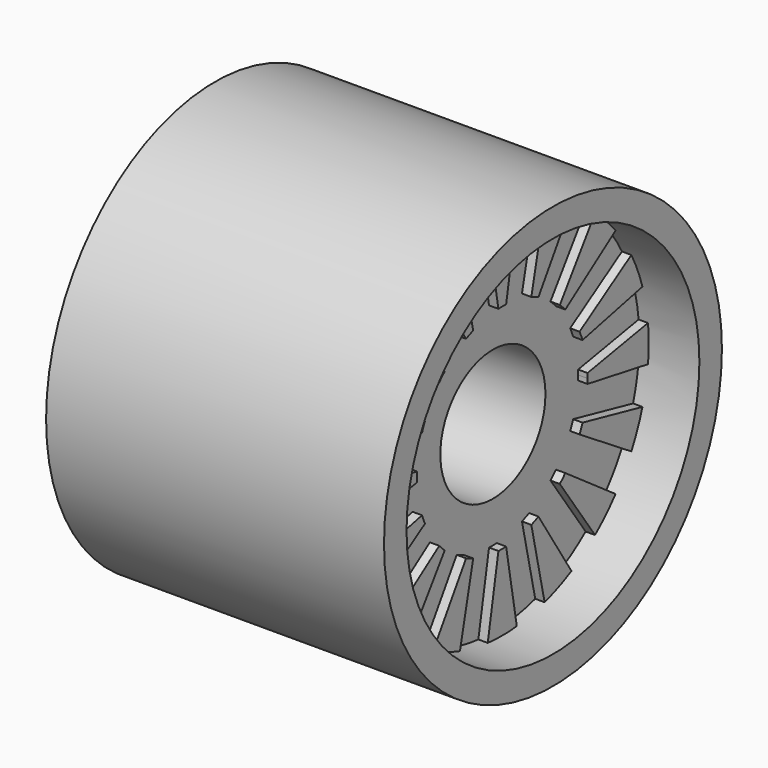
from build123d import *

# Parameters (mm, degrees)
F0_R     = 9.75
F2_DEPTH = 18
F1_R     = 11.25
F1_R_2   = 9.75
F3_DEPTH = 18
F4_DEPTH = 10
F5_DEPTH = 3.2
F6_R     = 3.5
F7_DEPTH = 14.801
F9_DEPTH = 0.5


with BuildPart() as f2:
    # F0 (on Right) → F2 (new body)
    with BuildSketch(Plane.YZ):
        Circle(F0_R)
    extrude(amount=F2_DEPTH)

    # F4 (cut): a face of the model
    f4_faces = [f2.faces().sort_by_distance(p)[0] for p in [
        (0, 0, 0),
    ]]
    extrude(f4_faces, amount=-F4_DEPTH, mode=Mode.SUBTRACT)

    # F5 (cut): a face of the model
    f5_faces = [f2.faces().sort_by_distance(p)[0] for p in [
        (18, 0, 0),
    ]]
    extrude(f5_faces, amount=-F5_DEPTH, mode=Mode.SUBTRACT)

    # F6 (on face) → F7 (cut, through all)
    with BuildSketch(Plane.YZ.offset(14.8)):
        Circle(F6_R)
    extrude(amount=-F7_DEPTH, mode=Mode.SUBTRACT)



with BuildPart() as f3:
    # F1 (on face) → F3 (new body)
    with BuildSketch(Plane.YZ):
        Circle(F1_R)
        Circle(F1_R_2, mode=Mode.SUBTRACT)
    extrude(amount=F3_DEPTH)


with BuildPart() as f2_1:
    add(f2.part)

    add(f3.part)  # F9 merges F3
    # F8 (on face) → F9 (join)
    with BuildSketch(Plane.YZ.offset(14.8)):
        with BuildLine():
            ThreePointArc((-4.19606186, 3.8323562574), (-4.0183261202, 4.0183261202), (-3.8323562574, 4.19606186))
            Line((-3.8323562574, 4.19606186), (-6.1766101499, 7.5440033839))
            ThreePointArc((-6.1766101499, 7.5440033839), (-6.8942911166, 6.8942911166), (-7.5440033839, 6.1766101499))
            Line((-7.5440033839, 6.1766101499), (-4.19606186, 3.8323562574))
        make_face()
        with BuildLine():
            ThreePointArc((-2.410076423, 5.1463988625), (-2.1747024254, 5.2501960894), (-1.9348721525, 5.3432349162))
            Line((-1.9348721525, 5.3432349162), (-2.8194785891, 9.3334366921))
            ThreePointArc((-2.8194785891, 9.3334366921), (-3.7311634656, 9.007825442), (-4.606063947, 8.5934088065))
            Line((-4.606063947, 8.5934088065), (-2.410076423, 5.1463988625))
        make_face()
        with BuildLine():
            ThreePointArc((-0.2571786979, 5.676948893), (0, 5.6827712972), (0.2571786979, 5.676948893))
            Line((0.2571786979, 5.676948893), (0.9668930283, 9.7019388718))
            ThreePointArc((0.9668930283, 9.7019388718), (0, 9.75), (-0.9668930283, 9.7019388718))
            Line((-0.9668930283, 9.7019388718), (-0.2571786979, 5.676948893))
        make_face()
        with BuildLine():
            Line((2.8194785891, 9.3334366921), (1.9348721525, 5.3432349162))
            ThreePointArc((1.9348721525, 5.3432349162), (2.1747024254, 5.2501960894), (2.410076423, 5.1463988625))
            Line((2.410076423, 5.1463988625), (4.606063947, 8.5934088065))
            ThreePointArc((4.606063947, 8.5934088065), (3.7311634656, 9.007825442), (2.8194785891, 9.3334366921))
        make_face()
        with BuildLine():
            Line((6.1766101499, 7.5440033839), (3.8323562574, 4.19606186))
            ThreePointArc((3.8323562574, 4.19606186), (4.0183261202, 4.0183261202), (4.19606186, 3.8323562574))
            Line((4.19606186, 3.8323562574), (7.5440033839, 6.1766101499))
            ThreePointArc((7.5440033839, 6.1766101499), (6.8942911166, 6.8942911166), (6.1766101499, 7.5440033839))
        make_face()
        with BuildLine():
            Line((8.5934088065, 4.606063947), (5.1463988625, 2.410076423))
            ThreePointArc((5.1463988625, 2.410076423), (5.2501960894, 2.1747024254), (5.3432349162, 1.9348721525))
            Line((5.3432349162, 1.9348721525), (9.3334366921, 2.8194785891))
            ThreePointArc((9.3334366921, 2.8194785891), (9.007825442, 3.7311634656), (8.5934088065, 4.606063947))
        make_face()
        with BuildLine():
            Line((9.7019388718, 0.9668930283), (5.676948893, 0.2571786979))
            ThreePointArc((5.676948893, 0.2571786979), (5.6813155097, 0.1286222989), (5.6827712972, 0))
            ThreePointArc((5.6827712972, 0), (5.6813155097, -0.1286222989), (5.676948893, -0.2571786979))
            Line((5.676948893, -0.2571786979), (9.7019388718, -0.9668930283))
            ThreePointArc((9.7019388718, -0.9668930283), (9.7379773054, -0.4840433865), (9.75, 0))
            ThreePointArc((9.75, 0), (9.7379773054, 0.4840433865), (9.7019388718, 0.9668930283))
        make_face()
        with BuildLine():
            Line((9.3334366921, -2.8194785891), (5.3432349162, -1.9348721525))
            ThreePointArc((5.3432349162, -1.9348721525), (5.2501960894, -2.1747024254), (5.1463988625, -2.410076423))
            Line((5.1463988625, -2.410076423), (8.5934088065, -4.606063947))
            ThreePointArc((8.5934088065, -4.606063947), (9.007825442, -3.7311634656), (9.3334366921, -2.8194785891))
        make_face()
        with BuildLine():
            Line((7.5440033839, -6.1766101499), (4.19606186, -3.8323562574))
            ThreePointArc((4.19606186, -3.8323562574), (4.0183261202, -4.0183261202), (3.8323562574, -4.19606186))
            Line((3.8323562574, -4.19606186), (6.1766101499, -7.5440033839))
            ThreePointArc((6.1766101499, -7.5440033839), (6.8942911166, -6.8942911166), (7.5440033839, -6.1766101499))
        make_face()
        with BuildLine():
            Line((4.606063947, -8.5934088065), (2.410076423, -5.1463988625))
            ThreePointArc((2.410076423, -5.1463988625), (2.1747024254, -5.2501960894), (1.9348721525, -5.3432349162))
            Line((1.9348721525, -5.3432349162), (2.8194785891, -9.3334366921))
            ThreePointArc((2.8194785891, -9.3334366921), (3.7311634656, -9.007825442), (4.606063947, -8.5934088065))
        make_face()
        with BuildLine():
            ThreePointArc((0.2571786979, -5.676948893), (0, -5.6827712972), (-0.2571786979, -5.676948893))
            Line((-0.2571786979, -5.676948893), (-0.9668930283, -9.7019388718))
            ThreePointArc((-0.9668930283, -9.7019388718), (0, -9.75), (0.9668930283, -9.7019388718))
            Line((0.9668930283, -9.7019388718), (0.2571786979, -5.676948893))
        make_face()
        with BuildLine():
            ThreePointArc((-1.9348721525, -5.3432349162), (-2.1747024254, -5.2501960894), (-2.410076423, -5.1463988625))
            Line((-2.410076423, -5.1463988625), (-4.606063947, -8.5934088065))
            ThreePointArc((-4.606063947, -8.5934088065), (-3.7311634656, -9.007825442), (-2.8194785891, -9.3334366921))
            Line((-2.8194785891, -9.3334366921), (-1.9348721525, -5.3432349162))
        make_face()
        with BuildLine():
            ThreePointArc((-3.8323562574, -4.19606186), (-4.0183261202, -4.0183261202), (-4.19606186, -3.8323562574))
            Line((-4.19606186, -3.8323562574), (-7.5440033839, -6.1766101499))
            ThreePointArc((-7.5440033839, -6.1766101499), (-6.8942911166, -6.8942911166), (-6.1766101499, -7.5440033839))
            Line((-6.1766101499, -7.5440033839), (-3.8323562574, -4.19606186))
        make_face()
        with BuildLine():
            ThreePointArc((-5.1463988625, -2.410076423), (-5.2501960894, -2.1747024254), (-5.3432349162, -1.9348721525))
            Line((-5.3432349162, -1.9348721525), (-9.3334366921, -2.8194785891))
            ThreePointArc((-9.3334366921, -2.8194785891), (-9.007825442, -3.7311634656), (-8.5934088065, -4.606063947))
            Line((-8.5934088065, -4.606063947), (-5.1463988625, -2.410076423))
        make_face()
        with BuildLine():
            ThreePointArc((-5.676948893, -0.2571786979), (-5.6827712972, 0), (-5.676948893, 0.2571786979))
            Line((-5.676948893, 0.2571786979), (-9.7019388718, 0.9668930283))
            ThreePointArc((-9.7019388718, 0.9668930283), (-9.75, 0), (-9.7019388718, -0.9668930283))
            Line((-9.7019388718, -0.9668930283), (-5.676948893, -0.2571786979))
        make_face()
        with BuildLine():
            ThreePointArc((-5.3432349162, 1.9348721525), (-5.2501960894, 2.1747024254), (-5.1463988625, 2.410076423))
            Line((-5.1463988625, 2.410076423), (-8.5934088065, 4.606063947))
            ThreePointArc((-8.5934088065, 4.606063947), (-9.007825442, 3.7311634656), (-9.3334366921, 2.8194785891))
            Line((-9.3334366921, 2.8194785891), (-5.3432349162, 1.9348721525))
        make_face()
    extrude(amount=F9_DEPTH)


solid = f2_1.part
